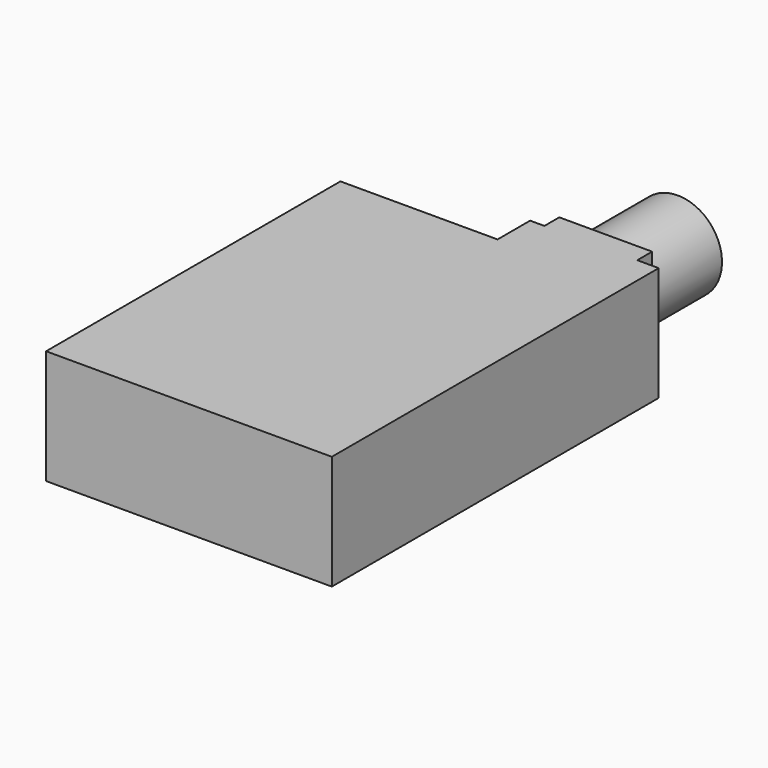
from build123d import *

# Parameters (mm, degrees)
F1_DEPTH = 8
F2_W     = 6.5
F2_H     = 6.5
F3_DEPTH = 1.3
F4_R     = 3.1
F5_DEPTH = 6.3


with BuildPart() as f1:
    # F0 (on Top) → F1 (new body)
    with BuildSketch(Plane.XY):
        Polygon((-0.430666, 6.157663), (-11.430666, 6.157663), (-11.430666, -19.592337), (8.569334, -19.592337), (8.569334, 6.157663), (8.569334, 9.007663), (-0.430666, 9.007663), align=None)
    extrude(amount=F1_DEPTH)

    # F2 (on face) → F3 (join)
    with BuildSketch(Plane(origin=(0, 9.007663, 0), x_dir=(-1, 0, 0), z_dir=(0, 1, 0))):
        with Locations((-3.819334, 4.75)):
            Rectangle(F2_W, F2_H)
    extrude(amount=F3_DEPTH)

    # F4 (on face) → F5 (join)
    with BuildSketch(Plane(origin=(0, 10.307663, 0), x_dir=(-1, 0, 0), z_dir=(0, 1, 0))):
        with Locations((-3.819334, 4.75)):
            Circle(F4_R)
    extrude(amount=F5_DEPTH)


solid = f1.part
